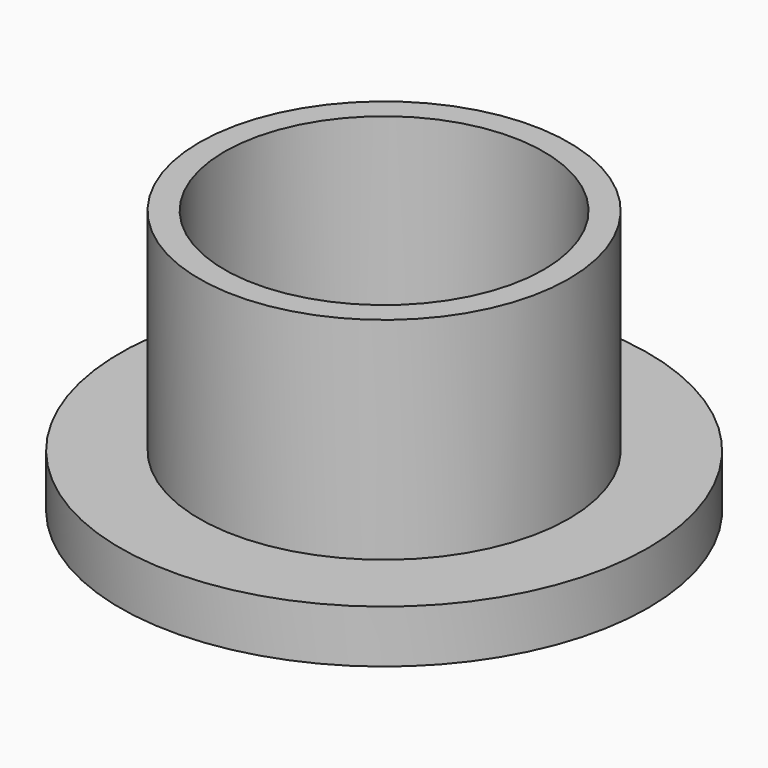
from build123d import *

# Parameters (mm, degrees)
F1_R     = 10
F1_R_2   = 7
F2_DEPTH = 2
F1_R_3   = 6.05
F3_DEPTH = 10
F4_SIZE  = 0.8


with BuildPart() as f2:
    # F1 (on Top) → F2 (new body)
    with BuildSketch(Plane.XY):
        Circle(F1_R)
        Circle(F1_R_2, mode=Mode.SUBTRACT)
    extrude(amount=F2_DEPTH)

    # F1 (on Top) → F3 (join)
    with BuildSketch(Plane.XY):
        Circle(F1_R_2)
        Circle(F1_R_3, mode=Mode.SUBTRACT)
    extrude(amount=F3_DEPTH)

    # F4
    f4_edges = [f2.edges().sort_by_distance(p)[0] for p in [
        (-6.05, 0, 0),
    ]]
    chamfer(f4_edges, length=F4_SIZE)


solid = f2.part
